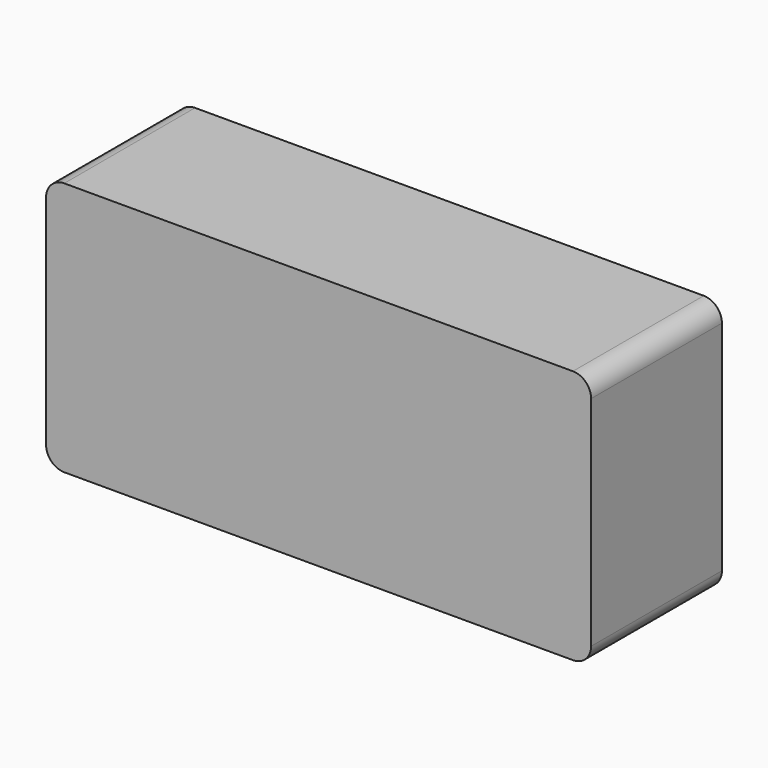
from build123d import *

# Parameters (mm, degrees)
F0_W     = 45
F0_H     = 70
F1_DEPTH = 75
F3_R     = 5


with BuildPart() as f1:
    # F0 (on Right) → F1 (new body)
    with BuildSketch(Plane.YZ):
        with Locations((-22.5, 35)):
            Rectangle(F0_W, F0_H)
    extrude(amount=F1_DEPTH)

    # F2: F1 across face


with BuildPart() as f1_1:
    add(f1.part)
    add(f1.part.mirror(Plane(origin=(0, -22.5, 35), x_dir=(0, 1, 0), z_dir=(-1, 0, 0))))

    # F3
    f3_edges = [f1_1.edges().sort_by_distance(p)[0] for p in [
        (-75, -22.5, 70),
        (75, -22.5, 70),
        (75, -22.5, 0),
        (-75, -22.5, 0),
    ]]
    fillet(f3_edges, radius=F3_R)


solid = f1_1.part
